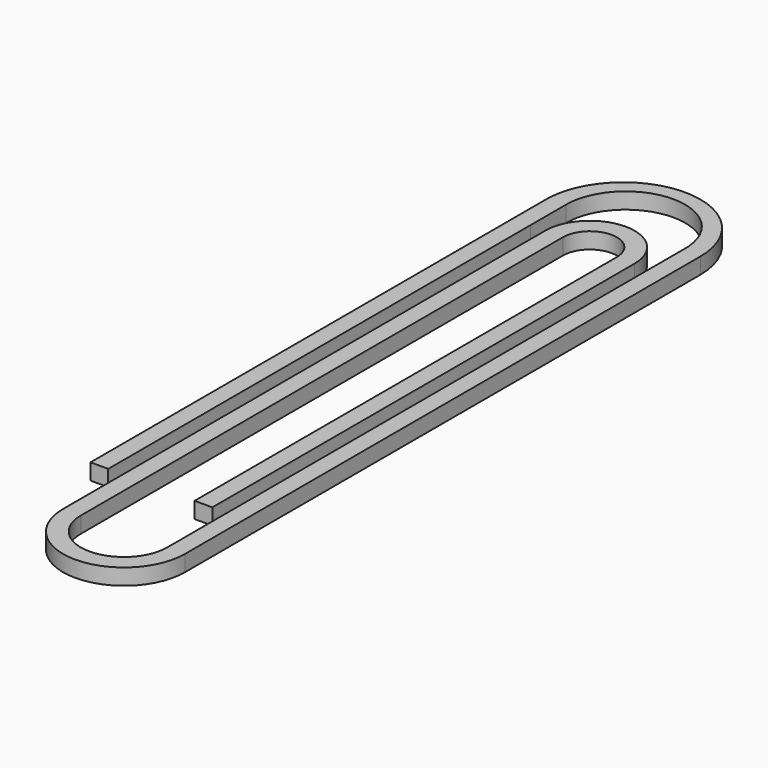
from build123d import *

# Parameters (mm, degrees)
F1_DEPTH = 1.27


with BuildPart() as f1:
    # F0 (on Top) → F1 (new body)
    with BuildSketch(Plane.XY):
        Polygon((-13.039942, 24.047667), (-13.039942, 27.567821), (-14.436942, 27.567782), (-14.436942, -17.562131), (-13.038776, -17.562092), align=None)
        with BuildLine():
            Line((-3.662834, 27.329175), (-3.662834, -23.470825))
            ThreePointArc((-3.662834, -23.470825), (-7.068022, -26.876014), (-10.473211, -23.470825))
            Line((-10.473211, -23.470825), (-10.474542, 24.047667))
            ThreePointArc((-10.474542, 24.047667), (-8.351388, 26.170821), (-6.228234, 24.047667))
            Line((-6.228234, 24.047667), (-6.228234, -17.562092))
            Line((-6.228234, -17.562092), (-4.831234, -17.562092))
            Line((-4.831234, -17.562092), (-4.831234, 24.047667))
            ThreePointArc((-4.831234, 24.047667), (-8.351388, 27.567821), (-11.871542, 24.047667))
            Line((-11.871542, 24.047667), (-11.871542, -23.470825))
            ThreePointArc((-11.871542, -23.470825), (-7.068688, -28.273679), (-2.265834, -23.470825))
            Line((-2.265834, -23.470825), (-2.265834, 27.329175))
            Line((-2.265834, 27.329175), (-3.662834, 27.329175))
        make_face()
        with BuildLine():
            ThreePointArc((-13.039942, 27.567821), (-8.228989, 32.257893), (-3.662834, 27.329175))
            Line((-3.662834, 27.329175), (-2.265834, 27.329175))
            ThreePointArc((-2.265834, 27.329175), (-8.2344, 33.415899), (-14.436942, 27.567782))
            Line((-14.436942, 27.567782), (-13.039942, 27.567821))
        make_face()
    extrude(amount=F1_DEPTH)


solid = f1.part
